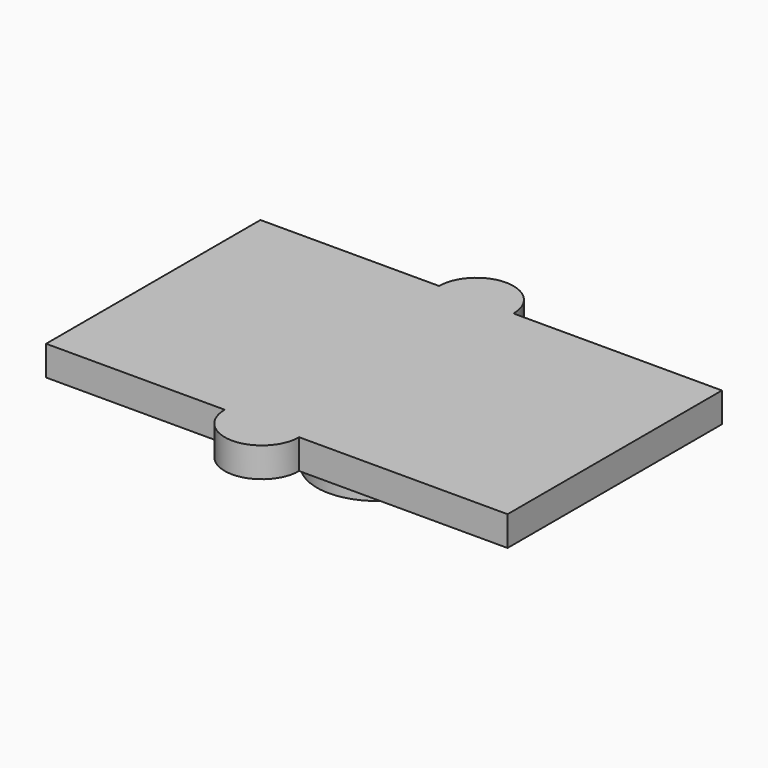
from build123d import *

# Parameters (mm, degrees)
F0_R     = 1.5875
F1_DEPTH = 1.5875
F2_W     = 1.190625
F2_H     = 1.190624
F3_W     = 1.5875
F3_H     = 1.5875
F6_DEPTH = 0.79375


with BuildPart() as f1:
    # F0 (on Top) → F1 (new body)
    with BuildSketch(Plane.XY):
        with Locations((-0.000785, 0)):
            Circle(F0_R)
    extrude(amount=F1_DEPTH)

    # F2 (on face) → F4 section 0
    with BuildSketch(Plane.XY.offset(1.5875)):
        with Locations((-1e-06, 0)):
            Rectangle(F2_W, F2_H)
    # F3 (on face) → F4 section 1
    with BuildSketch(Plane(origin=(0, 0, 0), x_dir=(1, 0, 0), z_dir=(0, 0, -1))):
        Rectangle(F3_W, F3_H)
    loft(mode=Mode.SUBTRACT)

    # F5 (on face) → F6 (join)
    with BuildSketch(Plane.XY.offset(1.5875)):
        with BuildLine():
            Line((-5.953125, 3.571875), (-5.953125, -3.571875))
            Line((-5.953125, -3.571875), (-1.190625, -3.571875))
            ThreePointArc((-1.190625, -3.571875), (-0.198438, -4.564063), (0.79375, -3.571875))
            Line((0.79375, -3.571875), (6.35, -3.571875))
            Line((6.35, -3.571875), (6.35, 3.571875))
            Line((6.35, 3.571875), (0.79375, 3.571875))
            ThreePointArc((0.79375, 3.571875), (-0.198437, 4.564063), (-1.190625, 3.571875))
            Line((-1.190625, 3.571875), (-5.953125, 3.571875))
        make_face()
    extrude(amount=F6_DEPTH)


solid = f1.part
